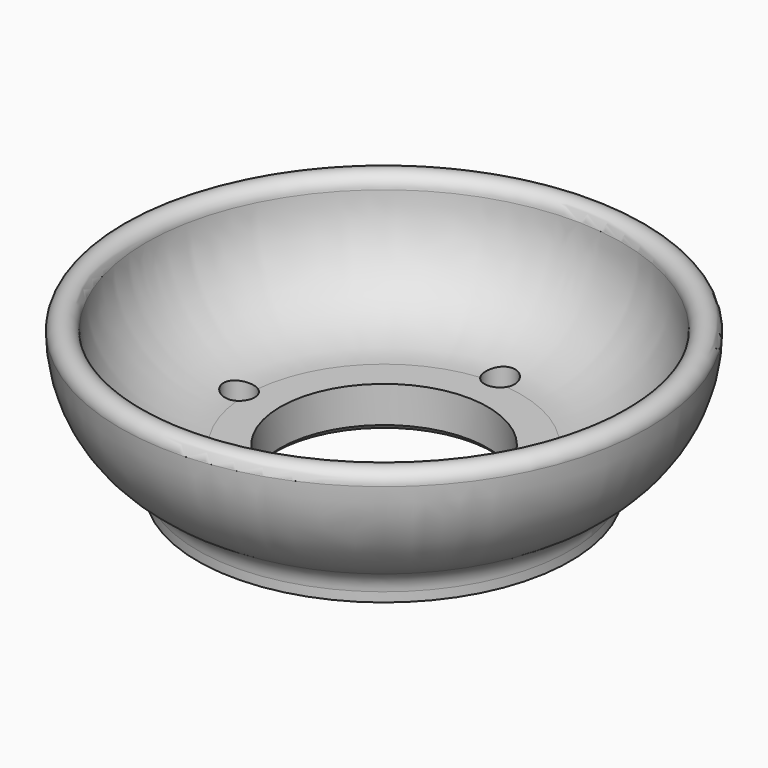
from build123d import *

# Parameters (mm, degrees)
F2_SIZE  = 1
F3_R     = 3
F4_DEPTH = 25


with BuildPart() as f1:
    # F0 (on Front) → F1 (revolve)
    with BuildSketch(Plane.XZ):
        with BuildLine():
            Line((-36, 0), (-20.05, 0))
            Line((-20.05, 0), (-20.05, 8))
            Line((-20.05, 8), (-26.5, 8))
            ThreePointArc((-26.5, 8), (-40.288582, 13.711418), (-46, 27.5))
            ThreePointArc((-46, 27.5), (-48.5, 30), (-51, 27.5))
            ThreePointArc((-51, 27.5), (-47.657601, 15.146623), (-38.542373, 6.163851))
            ThreePointArc((-38.542373, 6.163851), (-36.682122, 4.330632), (-36, 1.809535))
            Line((-36, 1.809535), (-36, 0))
        make_face()
    revolve(axis=Axis((0, 0, 4), (0, 0, 1)))

    # F2
    f2_edges = [f1.edges().sort_by_distance(p)[0] for p in [
        (20.05, 0, 0),
    ]]
    chamfer(f2_edges, length=F2_SIZE)

    # F3 (on Top) → F4 (cut)
    with BuildSketch(Plane.XY):
        with Locations((-28, 0)):
            Circle(F3_R)
        with Locations((0, 28)):
            Circle(F3_R)
        with Locations((28, 0)):
            Circle(F3_R)
        with Locations((0, -28)):
            Circle(F3_R)
    extrude(amount=F4_DEPTH, mode=Mode.SUBTRACT)


solid = f1.part
